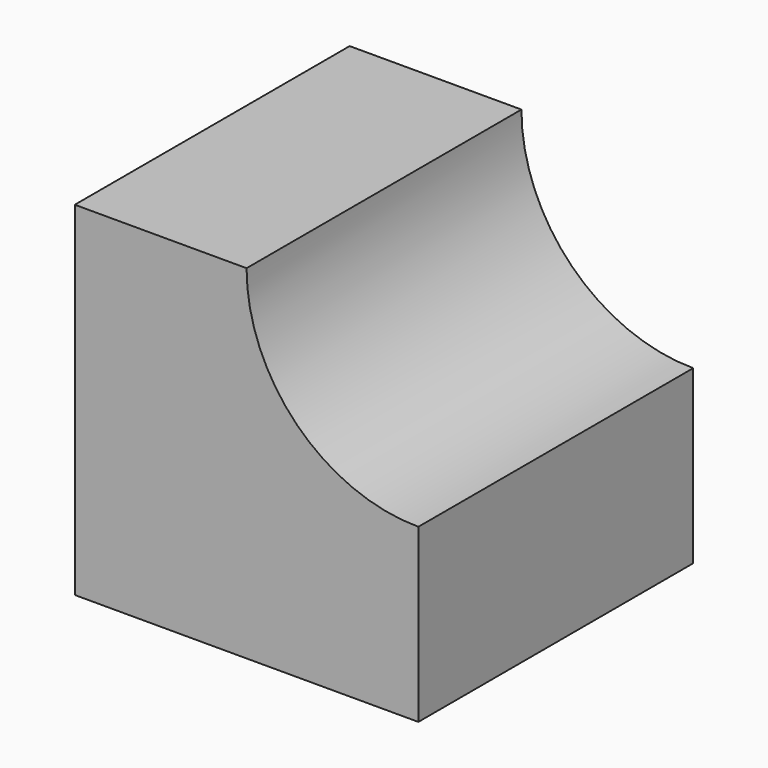
from build123d import *

# Parameters (mm, degrees)
F0_W     = 25.4
F0_H     = 25.4
F1_DEPTH = 25.4
F3_DEPTH = 25.4


with BuildPart() as f1:
    # F0 (on Front) → F1 (new body)
    with BuildSketch(Plane.XZ):
        with Locations((-12.7, 12.7)):
            Rectangle(F0_W, F0_H)
    extrude(amount=F1_DEPTH)

    # F2 (on face) → F3 (cut)
    with BuildSketch(Plane.XZ.offset(25.4)):
        with BuildLine():
            Line((0, 25.4), (-12.7, 25.4))
            ThreePointArc((-12.7, 25.4), (-8.980256, 16.419744), (0, 12.7))
            Line((0, 12.7), (0, 25.4))
        make_face()
    extrude(amount=-F3_DEPTH, mode=Mode.SUBTRACT)


solid = f1.part
